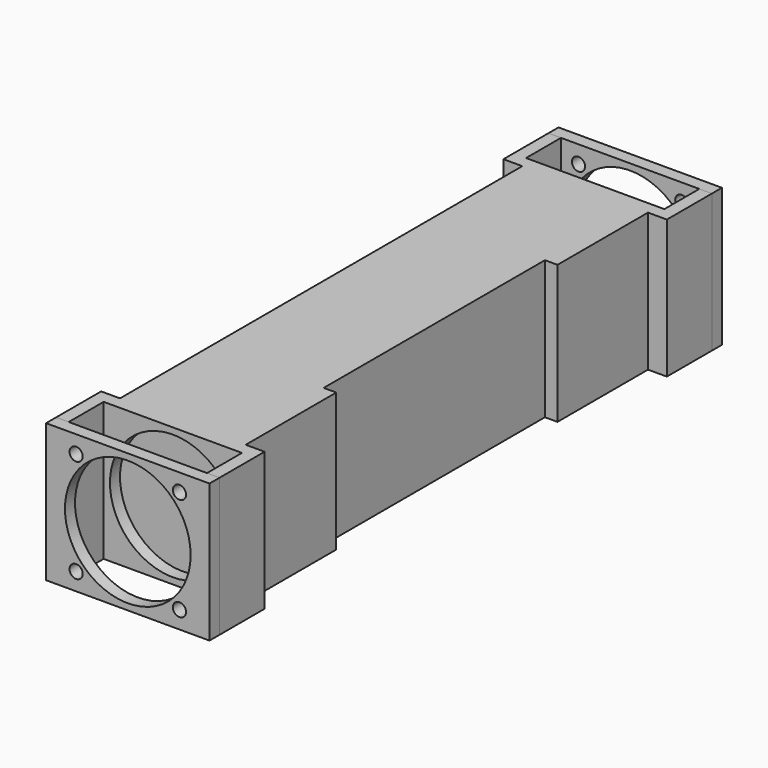
from build123d import *

# Parameters (mm, degrees)
BOX003_W                 = 101.6
BOX003_H                 = 279.4
BOX003_DEPTH             = 12.7
BOX009_W                 = 12.7
BOX009_H                 = 44.1376
BOX009_DEPTH             = 139.7
BOX006_W                 = 12.7
BOX006_H                 = 44.1376
BOX006_DEPTH             = 139.7
BOX007_W                 = 12.7
BOX007_H                 = 44.1376
BOX007_DEPTH             = 139.7
SKETCH002_W              = 165.100117
SKETCH002_H              = 139.700117
SKETCH002_R              = 6.6548
SKETCH002_R_2            = 63.4873
PAD_DEPTH                = 12.7
CLONE001_PLACEMENT_ANGLE = 180
CLONE_PLACEMENT_ANGLE    = 180
BOX010_W                 = 165.1
BOX010_H                 = 12.7
BOX010_DEPTH             = 139.7
SKETCH004_R              = 63.4873
POCKET_DEPTH             = 12.7
BOX008_W                 = 12.7
BOX008_H                 = 44.1376
BOX008_DEPTH             = 139.7
BOX_W                    = 127
BOX_H                    = 114.3
BOX_DEPTH                = 139.7
BOX002_W                 = 12.7
BOX002_H                 = 279.4
BOX002_DEPTH             = 139.7


with BuildPart() as cube003:
    # Box003 → Box003 (new body)
    with BuildSketch(Plane(origin=(-224.636743, 494.971814, 58.555664), x_dir=(1, 0, 0), z_dir=(0, 0, 1))):
        with Locations((50.8, 139.7)):
            Rectangle(BOX003_W, BOX003_H)
    extrude(amount=BOX003_DEPTH)


with BuildPart() as cube009:
    # Box009 → Box009 (new body)
    with BuildSketch(Plane(origin=(-91.286743, 901.371814, -68.444336), x_dir=(1, 0, 0), z_dir=(0, 0, 1))):
        with Locations((6.35, 22.0688)):
            Rectangle(BOX009_W, BOX009_H)
    extrude(amount=BOX009_DEPTH)


with BuildPart() as cube006:
    # Box006 → Box006 (new body)
    with BuildSketch(Plane(origin=(-243.686743, 323.834214, -68.444336), x_dir=(1, 0, 0), z_dir=(0, 0, 1))):
        with Locations((6.35, 22.0688)):
            Rectangle(BOX006_W, BOX006_H)
    extrude(amount=BOX006_DEPTH)


with BuildPart() as cube007:
    # Box007 → Box007 (new body)
    with BuildSketch(Plane(origin=(-243.686743, 901.371814, -68.444336), x_dir=(1, 0, 0), z_dir=(0, 0, 1))):
        with Locations((6.35, 22.0688)):
            Rectangle(BOX007_W, BOX007_H)
    extrude(amount=BOX007_DEPTH)


with BuildPart() as pad:
    # Sketch002 → Pad (new body)
    with BuildSketch(Plane(origin=(0, 37.338, 0), x_dir=(-1, 0, 0), z_dir=(0, 1, 0))):
        with Locations((-69.215058, 89.86448)):
            Rectangle(SKETCH002_W, SKETCH002_H)
        with Locations((-121.408307, 142.057728)):
            Circle(SKETCH002_R, mode=Mode.SUBTRACT)
        with Locations((-17.02181, 142.057728)):
            Circle(SKETCH002_R, mode=Mode.SUBTRACT)
        with Locations((-17.02181, 37.671231)):
            Circle(SKETCH002_R, mode=Mode.SUBTRACT)
        with Locations((-121.408307, 37.671231)):
            Circle(SKETCH002_R, mode=Mode.SUBTRACT)
        with Locations((-69.215, 89.864421)):
            Circle(SKETCH002_R_2, mode=Mode.SUBTRACT)
    extrude(amount=PAD_DEPTH)


with BuildPart() as clone_of_pad001:
    # Clone001 base: copy of Pad
    add(pad.part)


with BuildPart() as clone_of_pad001_1:
    # Clone001 placement: moved
    add(clone_of_pad001.part.moved(Location((-91.921743, 995.547414, -88.458874))).rotate(Axis((-91.921743, 995.547414, -88.458874), (0, 0, 1)), CLONE001_PLACEMENT_ANGLE))


with BuildPart() as clone_of_pad:
    # Clone base: copy of Pad
    add(pad.part)


with BuildPart() as clone_of_pad_1:
    # Clone placement: moved
    add(clone_of_pad.part.moved(Location((-91.921626, 361.172214, -88.458874))).rotate(Axis((-91.921626, 361.172214, -88.458874), (0, 0, 1)), CLONE_PLACEMENT_ANGLE))


with BuildPart() as pocket:
    # Box010 → Box010 (new body)
    with BuildSketch(Plane(origin=(-102.435181, 88.203278, -436.376007), x_dir=(1, 0, 0), z_dir=(0, 0, 1))):
        with Locations((82.55, 6.35)):
            Rectangle(BOX010_W, BOX010_H)
    extrude(amount=BOX010_DEPTH)

    # Sketch004 → Pocket (cut)
    with BuildSketch(Plane(origin=(-102.435181, 88.203278, -436.376007), x_dir=(1, 0, 0), z_dir=(0, -1, 0))):
        with Locations((82.55, 69.85)):
            Circle(SKETCH004_R)
    extrude(amount=-POCKET_DEPTH, mode=Mode.SUBTRACT)


with BuildPart() as clone_of_pocket003005005:
    # Clone006 base: copy of Pocket
    add(pocket.part)


with BuildPart() as clone_of_pocket003005005_1:
    # Clone006 placement: moved
    add(clone_of_pocket003005005.part.moved(Location((-141.251562, 800.468536, 367.931671))))


with BuildPart() as clone_of_pocket:
    # Clone005 base: copy of Pocket
    add(pocket.part)


with BuildPart() as clone_of_pocket_1:
    # Clone005 placement: moved
    add(clone_of_pocket.part.moved(Location((-141.251562, 279.768536, 367.931671))))


with BuildPart() as cube008:
    # Box008 → Box008 (new body)
    with BuildSketch(Plane(origin=(-91.286743, 323.834214, -68.444336), x_dir=(1, 0, 0), z_dir=(0, 0, 1))):
        with Locations((6.35, 22.0688)):
            Rectangle(BOX008_W, BOX008_H)
    extrude(amount=BOX008_DEPTH)


with BuildPart() as cube:
    # Box → Box (new body)
    with BuildSketch(Plane(origin=(-224.636743, 380.671814, -68.444336), x_dir=(1, 0, 0), z_dir=(0, 0, 1))):
        with Locations((63.5, 57.15)):
            Rectangle(BOX_W, BOX_H)
    extrude(amount=BOX_DEPTH)


with BuildPart() as clone_of_cube:
    # Clone008 base: copy of Cube
    add(cube.part)


with BuildPart() as clone_of_cube_1:
    # Clone008 placement: moved
    add(clone_of_cube.part.moved(Location((0, 393.7, 0))))


with BuildPart() as fusion:
    # Box002 → Box002 (new body)
    with BuildSketch(Plane(origin=(-123.036743, 494.971814, -68.444336), x_dir=(1, 0, 0), z_dir=(0, 0, 1))):
        with Locations((6.35, 139.7)):
            Rectangle(BOX002_W, BOX002_H)
    extrude(amount=BOX002_DEPTH)

    # Fusion: union Cube003, Cube009, Cube006, Cube007, Clone of Pad001, Clone of Pad, Clone of Pocket003005005, Clone of Pocket, Cube008, Clone of Cube, Cube
    add(cube003.part)
    add(cube009.part)
    add(cube006.part)
    add(cube007.part)
    add(clone_of_pad001_1.part)
    add(clone_of_pad_1.part)
    add(clone_of_pocket003005005_1.part)
    add(clone_of_pocket_1.part)
    add(cube008.part)
    add(clone_of_cube_1.part)
    add(cube.part)


solid = fusion.part
